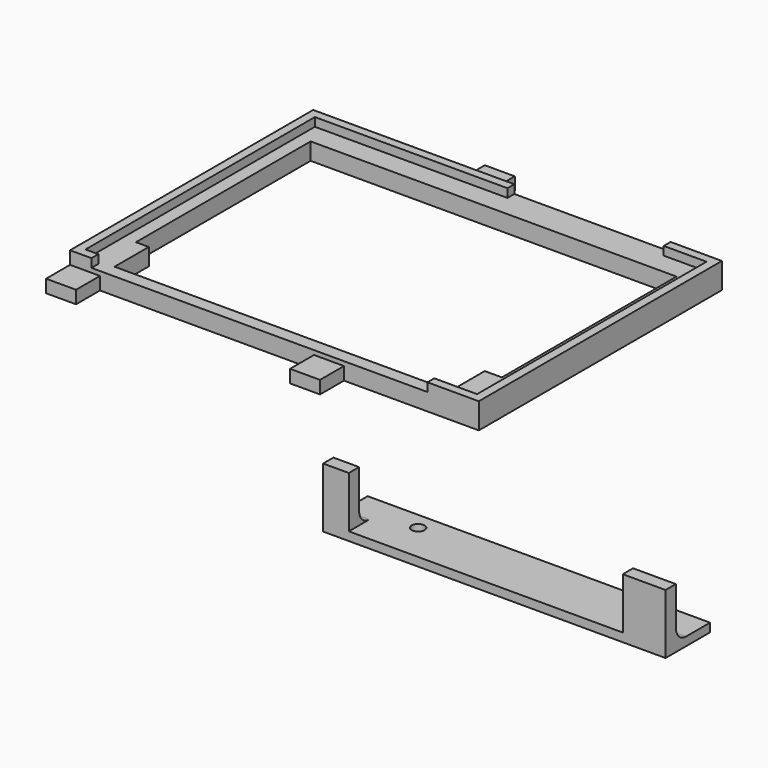
from build123d import *

# Parameters (mm, degrees)
F0_W      = 95.5
F0_H      = 71
F0_W_2    = 91.5
F0_H_2    = 67
F1_DEPTH  = 6
F2_W      = 91.5
F2_H      = 67
F3_DEPTH  = 4
F4_W      = 78.5
F4_H      = 2
F4_W_2    = 36.5
F5_DEPTH  = 2
F6_W      = 7
F6_H      = 7
F7_DEPTH  = 3
F8_W      = 80
F8_H      = 13
F8_R      = 1.5
F9_DEPTH  = 2
F10_W     = 10
F10_H     = 14
F10_W_2   = 6
F11_DEPTH = 3
F12_R     = 3


with BuildPart() as f1:
    # F0 (on Top) → F1 (new body)
    with BuildSketch(Plane.XY):
        Rectangle(F0_W, F0_H)
        Rectangle(F0_W_2, F0_H_2, mode=Mode.SUBTRACT)
    extrude(amount=F1_DEPTH)

    # F2 (on face) → F3 (join)
    with BuildSketch(Plane(origin=(0, 0, 0), x_dir=(1, 0, 0), z_dir=(0, 0, -1))):
        Rectangle(F2_W, F2_H)
        Polygon((-30.75, -28.5), (-42.75, -28.5), (-42.75, 22.5), (-39.75, 22.5), (-39.75, 32.5), (38.75, 32.5), (38.75, 22.5), (42.75, 22.5), (42.75, -28.5), (-20.75, -28.5), align=None, mode=Mode.SUBTRACT)
    extrude(amount=-F3_DEPTH)

    # F4 (on face) → F5 (cut)
    with BuildSketch(Plane.XY.offset(6)):
        with Locations((-3.5, -34.5)):
            Rectangle(F4_W, F4_H)
        with Locations((17.5, 34.5)):
            Rectangle(F4_W_2, F4_H)
    extrude(amount=-F5_DEPTH, mode=Mode.SUBTRACT)

    # F6 (on face) → F7 (join)
    with BuildSketch(Plane(origin=(0, 0, 0), x_dir=(1, 0, 0), z_dir=(0, 0, -1))):
        with Locations((-44.25, 39)):
            Rectangle(F6_W, F6_H)
        with Locations((-9.75, -39)):
            Rectangle(F6_W, F6_H)
        with Locations((12.75, 39)):
            Rectangle(F6_W, F6_H)
    extrude(amount=-F7_DEPTH)


with BuildPart() as f9:
    # F8 (on Top) → F9 (new body)
    with BuildSketch(Plane.XY):
        with Locations((90.540446, -77.946569)):
            Rectangle(F8_W, F8_H)
        with Locations((65.540446, -75.446569)):
            Circle(F8_R, mode=Mode.SUBTRACT)
        with Locations((115.540446, -75.446569)):
            Circle(F8_R, mode=Mode.SUBTRACT)
    extrude(amount=F9_DEPTH)

    # F10 (on face) → F11 (join)
    with BuildSketch(Plane.XZ.offset(84.446569)):
        with Locations((125.540446, 7)):
            Rectangle(F10_W, F10_H)
        with Locations((53.540446, 7)):
            Rectangle(F10_W_2, F10_H)
    extrude(amount=-F11_DEPTH)

    # F12
    f12_edges = [f9.edges().sort_by_distance(p)[0] for p in [
        (53.540446, -81.446569, 2),
        (125.540446, -81.446569, 2),
    ]]
    fillet(f12_edges, radius=F12_R)


solid = Compound([f1.part, f9.part])
